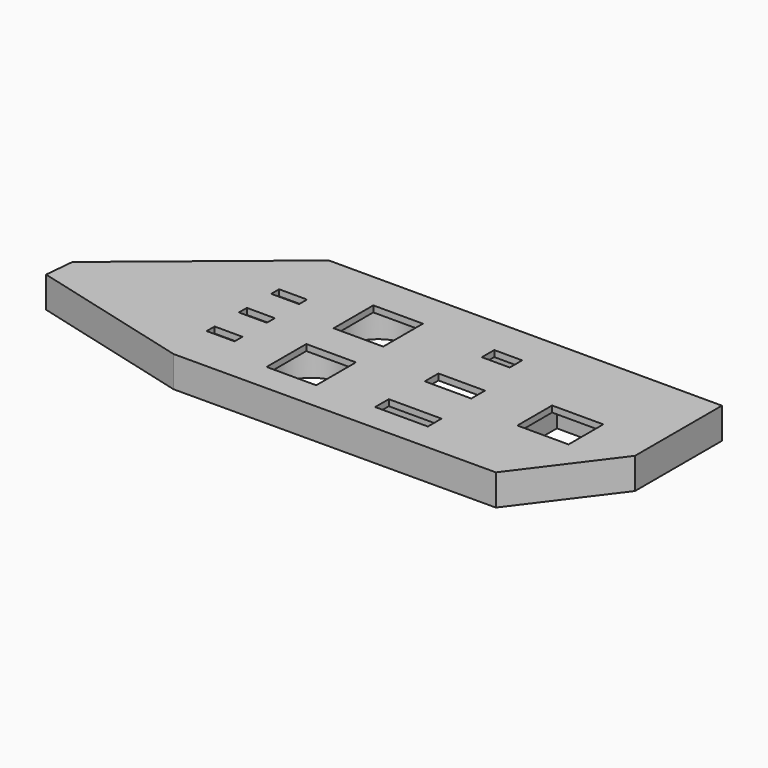
from build123d import *

# Parameters (mm, degrees)
PAD_DEPTH       = 10
SKETCH001_W     = 9
SKETCH001_H     = 3.2
SKETCH001_W_2   = 15
SKETCH001_H_2   = 5.5
SKETCH001_H_3   = 5
SKETCH001_W_3   = 16.5
SKETCH001_H_4   = 14
SKETCH001_W_4   = 16
SKETCH001_H_5   = 16
SKETCH001_W_5   = 17
POCKET_DEPTH    = 2
SKETCH002_R     = 12
POCKET001_DEPTH = 8
SKETCH003_W     = 41
SKETCH003_H     = 19
POCKET002_DEPTH = 8
SKETCH004_W     = 35
SKETCH004_H     = 12.5
POCKET003_DEPTH = 8
SKETCH005_W     = 41
SKETCH005_H     = 21
POCKET004_DEPTH = 8
SKETCH006_W     = 14
SKETCH006_H     = 12
POCKET005_DEPTH = 8
SKETCH007_W     = 13
SKETCH007_H     = 8
POCKET006_DEPTH = 8
SKETCH008_W     = 27
SKETCH008_H     = 10
POCKET007_DEPTH = 8
SKETCH009_W     = 23
SKETCH009_H     = 23
POCKET008_DEPTH = 8


with BuildPart() as part:
    # Sketch → Pad (new body)
    with BuildSketch(Plane.XY):
        Polygon((126.692246, 7.136342), (-0.047754, 7.136342), (-49.921126, -33.859272), (-50.819163, -43.341843), (1.360604, -57.146646), (104.980095, -56.822042), (126.692246, -27.893658), align=None)
    extrude(amount=PAD_DEPTH)

    # Sketch001 (on Face9 of Pad) → Pocket (cut)
    with BuildSketch(Plane.XY.offset(10)):
        with Locations((4.5, -14.55)):
            Rectangle(SKETCH001_W, SKETCH001_H)
        with Locations((4.5, -27.55)):
            Rectangle(SKETCH001_W, SKETCH001_H)
        with Locations((4.5, -40.55)):
            Rectangle(SKETCH001_W, SKETCH001_H)
        with Locations((67.5, -26.5)):
            Rectangle(SKETCH001_W_2, SKETCH001_H_2)
        with Locations((67.5, -7.5)):
            Rectangle(SKETCH001_W, SKETCH001_H_3)
        with Locations((101.5, -26.5)):
            Rectangle(SKETCH001_W_3, SKETCH001_H_4)
        with Locations((32, -13)):
            Rectangle(SKETCH001_W_4, SKETCH001_H_5)
        with Locations((32, -40)):
            Rectangle(SKETCH001_W_4, SKETCH001_H_5)
        with Locations((67.5, -45.25)):
            Rectangle(SKETCH001_W_5, SKETCH001_H_2)
    extrude(amount=-POCKET_DEPTH, mode=Mode.SUBTRACT)

    # Sketch002 (on Face4 of Pocket) → Pocket001 (cut)
    with BuildSketch(Plane(origin=(0, 0, 0), x_dir=(1, 0, 0), z_dir=(0, 0, -1))):
        with Locations((32, 39.982296)):
            Circle(SKETCH002_R)
        with Locations((32, 12.989247)):
            Circle(SKETCH002_R)
    extrude(amount=-POCKET001_DEPTH, mode=Mode.SUBTRACT)

    # Sketch003 (on Face4 of Pocket001) → Pocket002 (cut)
    with BuildSketch(Plane(origin=(0, 0, 0), x_dir=(1, 0, 0), z_dir=(0, 0, -1))):
        with Locations((67.481461, 7.5)):
            Rectangle(SKETCH003_W, SKETCH003_H)
    extrude(amount=-POCKET002_DEPTH, mode=Mode.SUBTRACT)

    # Sketch004 (on Face4 of Pocket002) → Pocket003 (cut)
    with BuildSketch(Plane(origin=(0, 0, 0), x_dir=(1, 0, 0), z_dir=(0, 0, -1))):
        with Locations((67.513935, 45.25)):
            Rectangle(SKETCH004_W, SKETCH004_H)
    extrude(amount=-POCKET003_DEPTH, mode=Mode.SUBTRACT)

    # Sketch005 (on Face4 of Pocket003) → Pocket004 (cut)
    with BuildSketch(Plane(origin=(0, 0, 0), x_dir=(1, 0, 0), z_dir=(0, 0, -1))):
        with Locations((67.69477, 26.497755)):
            Rectangle(SKETCH005_W, SKETCH005_H)
    extrude(amount=-POCKET004_DEPTH, mode=Mode.SUBTRACT)

    # Sketch006 (on Face4 of Pocket004) → Pocket005 (cut)
    with BuildSketch(Plane(origin=(0, 0, 0), x_dir=(1, 0, 0), z_dir=(0, 0, -1))):
        with Locations((4.509145, 40.540194)):
            Rectangle(SKETCH006_W, SKETCH006_H)
    extrude(amount=-POCKET005_DEPTH, mode=Mode.SUBTRACT)

    # Sketch007 (on Face4 of Pocket005) → Pocket006 (cut)
    with BuildSketch(Plane(origin=(0, 0, 0), x_dir=(1, 0, 0), z_dir=(0, 0, -1))):
        with Locations((4.5, 27.545833)):
            Rectangle(SKETCH007_W, SKETCH007_H)
    extrude(amount=-POCKET006_DEPTH, mode=Mode.SUBTRACT)

    # Sketch008 (on Face4 of Pocket006) → Pocket007 (cut)
    with BuildSketch(Plane(origin=(0, 0, 0), x_dir=(1, 0, 0), z_dir=(0, 0, -1))):
        with Locations((4.5, 14.554985)):
            Rectangle(SKETCH008_W, SKETCH008_H)
    extrude(amount=-POCKET007_DEPTH, mode=Mode.SUBTRACT)

    # Sketch009 (on Face4 of Pocket007) → Pocket008 (cut)
    with BuildSketch(Plane(origin=(0, 0, 0), x_dir=(1, 0, 0), z_dir=(0, 0, -1))):
        with Locations((101.5, 25)):
            Rectangle(SKETCH009_W, SKETCH009_H)
    extrude(amount=-POCKET008_DEPTH, mode=Mode.SUBTRACT)


solid = part.part
